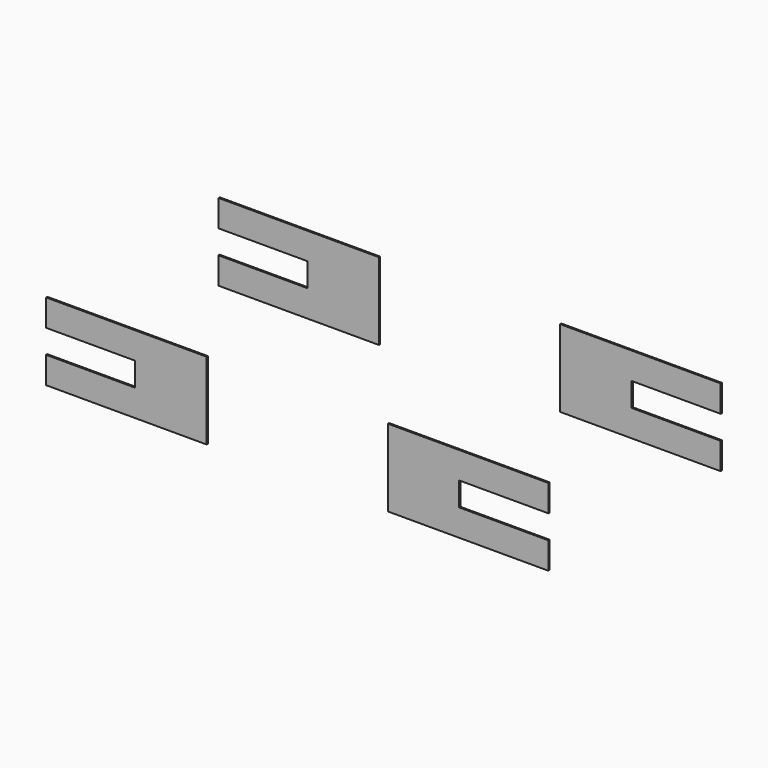
from build123d import *

# Parameters (mm, degrees)
F2_DEPTH = 25


with BuildPart() as f2:
    # F1 (on offset) → F2 (new body)
    with BuildSketch(Plane.XZ.offset(1800)):
        Polygon((4225, 1605), (1525, 1605), (1525, 305), (4225, 305), (4225, 755), (2725, 755), (2725, 1155), (4225, 1155), align=None)
    extrude(amount=F2_DEPTH)


with BuildPart() as f3_1:
    # F3: instance of F2
    add(f2.part.mirror(Plane.YZ))


with BuildPart() as f4_1:
    # F4: instance of F2
    add(f2.part.mirror(Plane.XZ))


with BuildPart() as f4_2:
    # F4: instance of F3_1
    add(f3_1.part.mirror(Plane.XZ))


solid = Compound([f2.part, f3_1.part, f4_1.part, f4_2.part])
